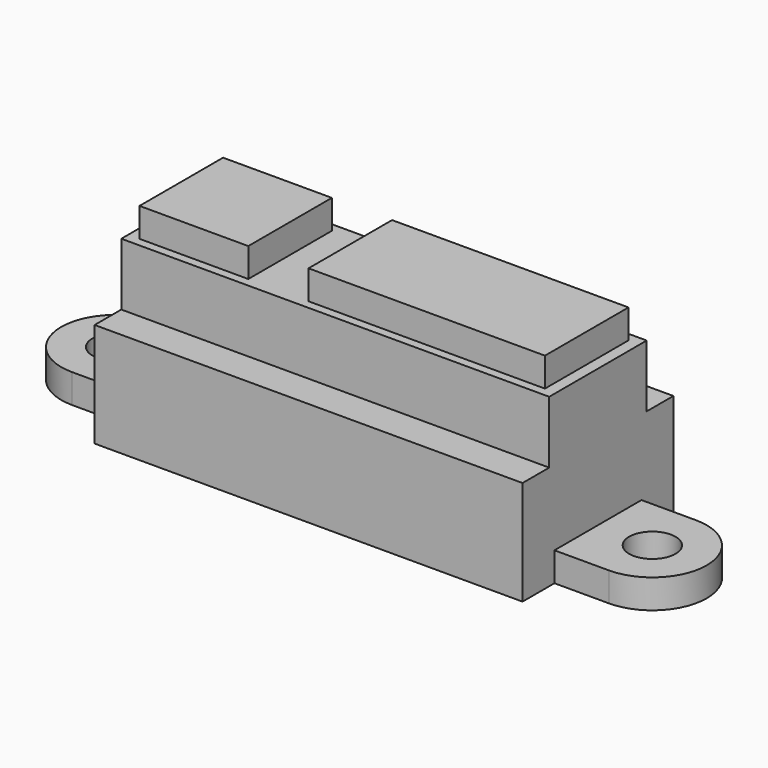
from build123d import *

# Parameters (mm, degrees)
F0_R     = 1.6
F1_DEPTH = 2
F2_W     = 29.5
F2_H     = 13
F3_DEPTH = 5.2
F4_W     = 29.5
F4_H     = 8.4
F5_DEPTH = 4.3
F6_W     = 16.3
F6_H     = 7.2
F6_W_2   = 7.5
F7_DEPTH = 2


with BuildPart() as f1:
    # F0 (on Top) → F1 (new body)
    with BuildSketch(Plane.XY):
        Polygon((14.75, 6.5), (-14.75, 6.5), (-14.75, 3.75), (-14.75, -3.75), (-14.75, -6.5), (14.75, -6.5), (14.75, -3.75), (14.75, 3.75), align=None)
        with BuildLine():
            Line((-14.75, -3.75), (-14.75, 3.75))
            Line((-14.75, 3.75), (-18.5, 3.75))
            ThreePointArc((-18.5, 3.75), (-22.25, 0), (-18.5, -3.75))
            Line((-18.5, -3.75), (-14.75, -3.75))
        make_face()
        with Locations((-18.5, 0)):
            Circle(F0_R, mode=Mode.SUBTRACT)
        with BuildLine():
            Line((18.5, 3.75), (14.75, 3.75))
            Line((14.75, 3.75), (14.75, -3.75))
            Line((14.75, -3.75), (18.5, -3.75))
            ThreePointArc((18.5, -3.75), (22.25, 0), (18.5, 3.75))
        make_face()
        with Locations((18.5, 0)):
            Circle(F0_R, mode=Mode.SUBTRACT)
    extrude(amount=F1_DEPTH)

    # F2 (on face) → F3 (join)
    with BuildSketch(Plane.XY.offset(2)):
        Rectangle(F2_W, F2_H)
    extrude(amount=F3_DEPTH)

    # F4 (on face) → F5 (join)
    with BuildSketch(Plane.XY.offset(7.2)):
        Rectangle(F4_W, F4_H)
    extrude(amount=F5_DEPTH)

    # F6 (on face) → F7 (join)
    with BuildSketch(Plane.XY.offset(11.5)):
        with Locations((5.825, 0)):
            Rectangle(F6_W, F6_H)
        with Locations((-10.225, 0)):
            Rectangle(F6_W_2, F6_H)
    extrude(amount=F7_DEPTH)


solid = f1.part
